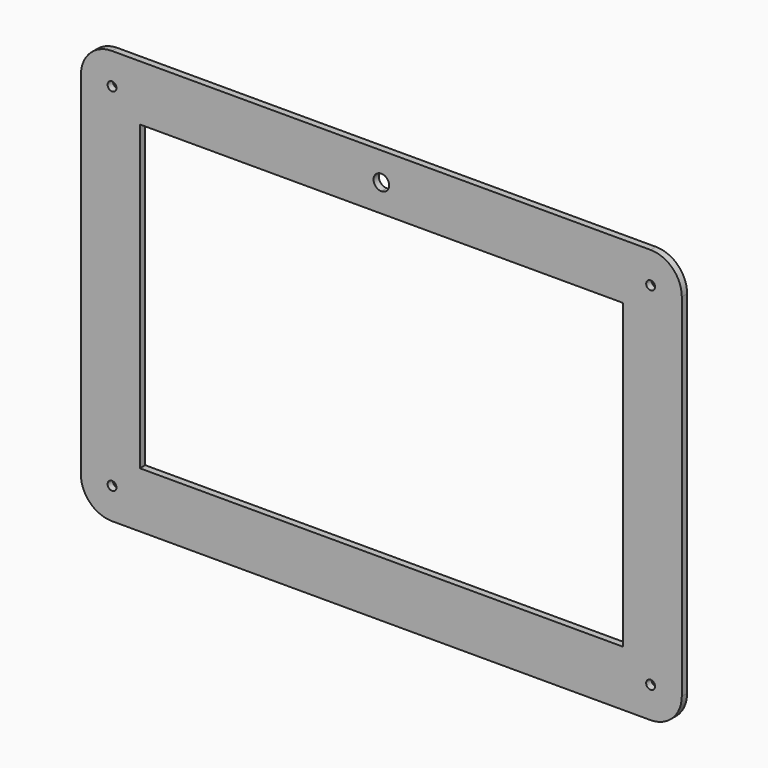
from build123d import *

# Parameters (mm, degrees)
F0_R     = 2
F1_DEPTH = 3


with BuildPart() as f1:
    # F0 (on Front) → F1 (new body)
    with BuildSketch(Plane.XZ):
        with BuildLine():
            Line((-121, -93), (121, -93))
            ThreePointArc((121, -93), (130.899495, -88.899495), (135, -79))
            Line((135, -79), (135, 79))
            ThreePointArc((135, 79), (130.899495, 88.899495), (121, 93))
            Line((121, 93), (-121, 93))
            ThreePointArc((-121, 93), (-130.899495, 88.899495), (-135, 79))
            Line((-135, 79), (-135, -79))
            ThreePointArc((-135, -79), (-130.899495, -88.899495), (-121, -93))
        make_face()
        with Locations((-121, -79)):
            Circle(F0_R, mode=Mode.SUBTRACT)
        with Locations((121, -79)):
            Circle(F0_R, mode=Mode.SUBTRACT)
        with Locations((-121, 79)):
            Circle(F0_R, mode=Mode.SUBTRACT)
        Polygon((108.5, 68), (108.5, -68), (-108.5, -68), (-108.5, 68), (0, 68), align=None, mode=Mode.SUBTRACT)
        with BuildLine():
            ThreePointArc((3.5, 80.342077), (2.474874, 77.867203), (0, 76.842077))
            ThreePointArc((0, 76.842077), (-2.474874, 82.81695), (3.5, 80.342077))
        make_face(mode=Mode.SUBTRACT)
        with Locations((121, 79)):
            Circle(F0_R, mode=Mode.SUBTRACT)
    extrude(amount=F1_DEPTH)


solid = f1.part
